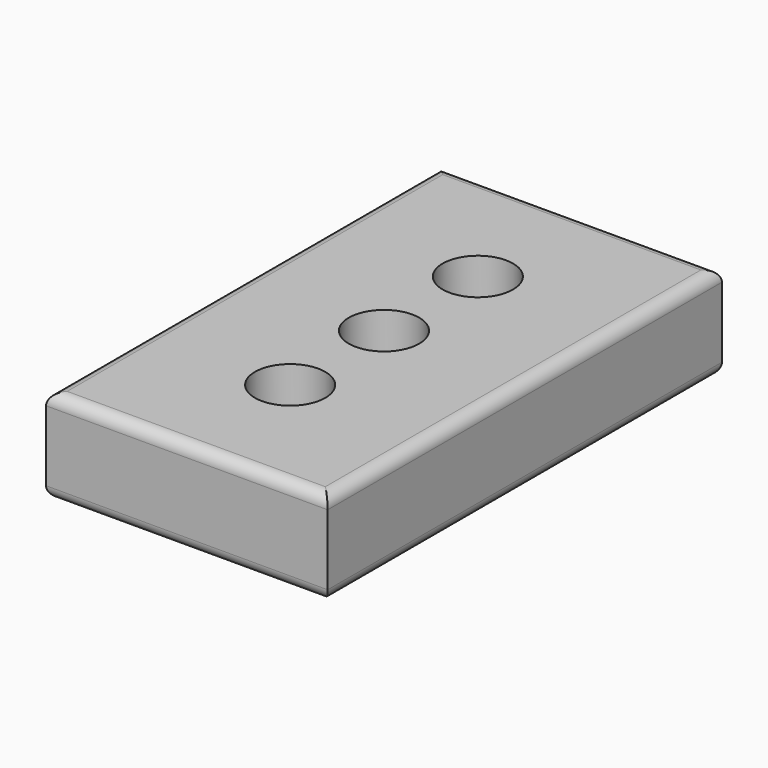
from build123d import *

# Parameters (mm, degrees)
F0_W     = 60
F0_H     = 20
F1_DEPTH = 52.5
F2_R     = 7.5
F3_DEPTH = 20.001
F4_R     = 2.5


with BuildPart() as f1:
    # F0 (on Front) → F1 (new body, symmetric)
    with BuildSketch(Plane.XZ):
        Rectangle(F0_W, F0_H)
    extrude(amount=F1_DEPTH, both=True)

    # F2 (on face) → F3 (cut, through all)
    with BuildSketch(Plane.XY.offset(10)):
        with Locations((0, 25)):
            Circle(F2_R)
        Circle(F2_R)
        with Locations((0, -25)):
            Circle(F2_R)
    extrude(amount=-F3_DEPTH, mode=Mode.SUBTRACT)

    # F4
    f4_edges = [f1.edges().sort_by_distance(p)[0] for p in [
        (-30, 0, 10),
        (0, -52.5, 10),
        (30, 0, 10),
        (0, 52.5, 10),
        (0, 52.5, -10),
        (30, 0, -10),
        (0, -52.5, -10),
        (-30, 0, -10),
    ]]
    fillet(f4_edges, radius=F4_R)


solid = f1.part
